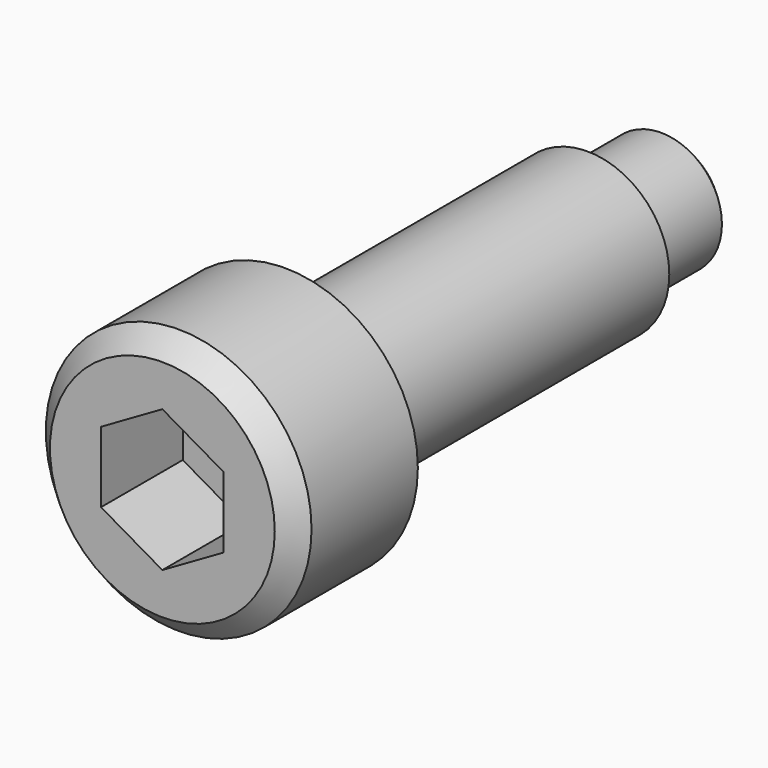
from build123d import *

# Parameters (mm, degrees)
F2_R     = 0.25
F3_SIZE  = 0.5
F4_SIZE  = 1
F6_DEPTH = 5


with BuildPart() as f1:
    # F0 (on Top) → F1 (revolve)
    with BuildSketch(Plane.XY):
        Polygon((0, 31), (0, 0), (6.5, 0), (6.5, 7.5), (4, 7.5), (4, 26), (2.975, 26), (2.975, 31), align=None)
    revolve(axis=Axis((0, 15.5, 0), (0, -1, 0)))

    # F2
    f2_edges = [f1.edges().sort_by_distance(p)[0] for p in [
        (-4, 7.5, 0),
        (-2.975, 26, 0),
    ]]
    fillet(f2_edges, radius=F2_R)

    # F3
    f3_edges = [f1.edges().sort_by_distance(p)[0] for p in [
        (-2.975, 31, 0),
    ]]
    chamfer(f3_edges, length=F3_SIZE)

    # F4
    f4_edges = [f1.edges().sort_by_distance(p)[0] for p in [
        (-6.5, 0, 0),
    ]]
    chamfer(f4_edges, length=F4_SIZE)

    # F5 (on face) → F6 (cut)
    with BuildSketch(Plane.XZ):
        Polygon((-3, 1.732051), (-3, -1.732051), (0, -3.464102), (3, -1.732051), (3, 1.732051), (0, 3.464102), align=None)
    extrude(amount=-F6_DEPTH, mode=Mode.SUBTRACT)


solid = f1.part
